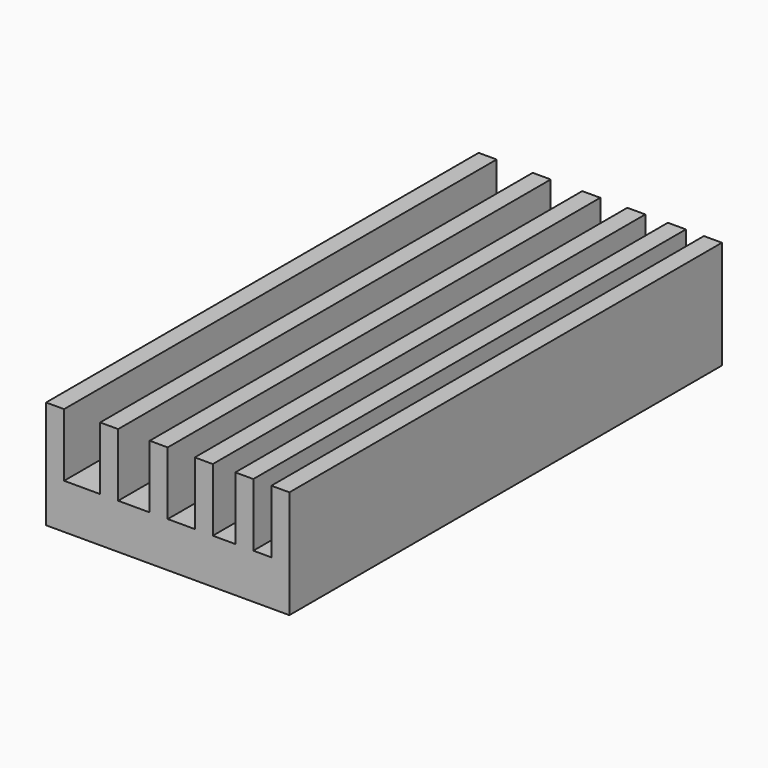
from build123d import *

# Parameters (mm, degrees)
F0_W     = 100
F0_H     = 100
F1_DEPTH = 6
F2_W     = 2
F2_H     = 100
F2_W_2   = 1.75
F2_W_3   = 1.5
F2_W_4   = 1.25
F2_W_5   = 1
F3_DEPTH = 3.5
F4_W     = 86.5
F4_H     = 100
F5_DEPTH = 25
F6_W     = 13.5
F6_H     = 70
F7_DEPTH = 25


with BuildPart() as f1:
    # F0 (on Top) → F1 (new body)
    with BuildSketch(Plane.XY):
        with Locations((3.685346, 0.65935)):
            Rectangle(F0_W, F0_H)
    extrude(amount=F1_DEPTH)

    # F2 (on face) → F3 (cut)
    with BuildSketch(Plane.XY.offset(6)):
        with Locations((-44.314654, 0.65935)):
            Rectangle(F2_W, F2_H)
        with Locations((-41.439654, 0.65935)):
            Rectangle(F2_W_2, F2_H)
        with Locations((-38.814654, 0.65935)):
            Rectangle(F2_W_3, F2_H)
        with Locations((-36.439654, 0.65935)):
            Rectangle(F2_W_4, F2_H)
        with Locations((-34.314654, 0.65935)):
            Rectangle(F2_W_5, F2_H)
    extrude(amount=-F3_DEPTH, mode=Mode.SUBTRACT)

    # F4 (on face) → F5 (cut)
    with BuildSketch(Plane.XY.offset(6)):
        with Locations((10.435346, 0.65935)):
            Rectangle(F4_W, F4_H)
    extrude(amount=-F5_DEPTH, mode=Mode.SUBTRACT)

    # F6 (on face) → F7 (cut)
    with BuildSketch(Plane(origin=(0, 0, 0), x_dir=(1, 0, 0), z_dir=(0, 0, -1))):
        with Locations((-39.564654, 14.34065)):
            Rectangle(F6_W, F6_H)
    extrude(amount=-F7_DEPTH, mode=Mode.SUBTRACT)


solid = f1.part
